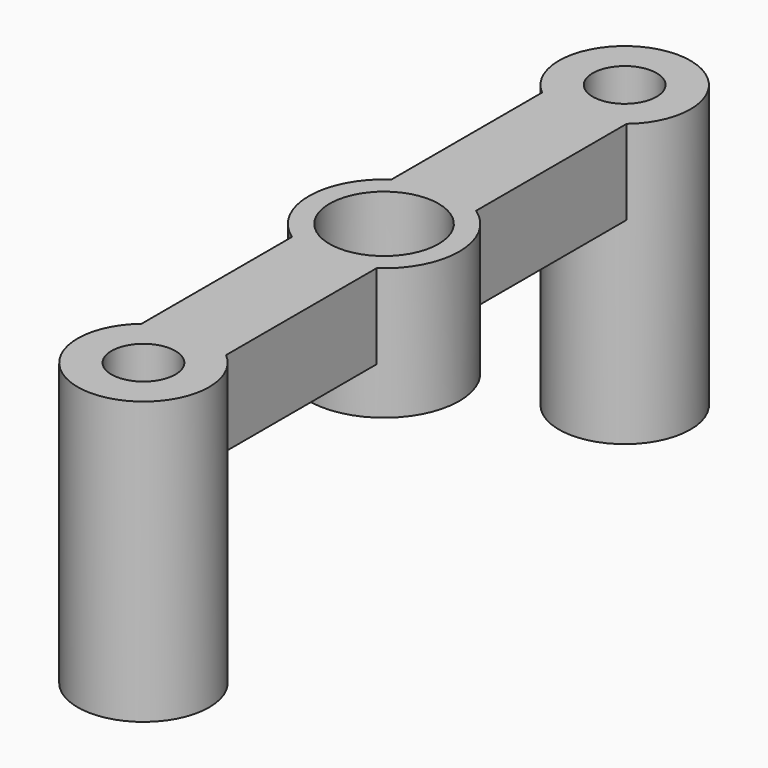
from build123d import *

# Parameters (mm, degrees)
CYLINDER001_R     = 1.7
CYLINDER001_DEPTH = 15
CYLINDER_R        = 3.5
CYLINDER_DEPTH    = 15
CYLINDER002_R     = 2.9
CYLINDER002_DEPTH = 7
BOX_W             = 4.5
BOX_H             = 28
BOX_DEPTH         = 4.5
CYLINDER003_R     = 4
CYLINDER003_DEPTH = 7


with BuildPart() as leg_inner:
    # Cylinder001 → Cylinder001 (new body)
    with BuildSketch(Plane(origin=(0, -16, 0), x_dir=(1, 0, 0), z_dir=(0, 0, 1))):
        Circle(CYLINDER001_R)
    extrude(amount=CYLINDER001_DEPTH)


with BuildPart() as leg_outer:
    # Cylinder → Cylinder (new body)
    with BuildSketch(Plane(origin=(0, -16, 0), x_dir=(1, 0, 0), z_dir=(0, 0, 1))):
        Circle(CYLINDER_R)
    extrude(amount=CYLINDER_DEPTH)


with BuildPart() as rough_leg_r:
    # Cut001 base: copy of leg_outer
    add(leg_outer.part)

    # Cut001: cut leg_inner
    add(leg_inner.part, mode=Mode.SUBTRACT)


with BuildPart() as rough_leg_r_1:
    # Cut001 placement: moved
    add(rough_leg_r.part.moved(Location((0, 32, 0))))


with BuildPart() as tubing_bore:
    # Cylinder002 → Cylinder002 (new body)
    with BuildSketch(Plane.XY.offset(8)):
        Circle(CYLINDER002_R)
    extrude(amount=CYLINDER002_DEPTH)


with BuildPart() as rough_arch:
    # Box → Box (new body)
    with BuildSketch(Plane(origin=(-2.25, -14, 10.5), x_dir=(1, 0, 0), z_dir=(0, 0, 1))):
        with Locations((2.25, 14)):
            Rectangle(BOX_W, BOX_H)
    extrude(amount=BOX_DEPTH)


with BuildPart() as center:
    # Cylinder003 → Cylinder003 (new body)
    with BuildSketch(Plane.XY.offset(8)):
        Circle(CYLINDER003_R)
    extrude(amount=CYLINDER003_DEPTH)

    # Fusion: union rough_arch
    add(rough_arch.part)

    # Cut002: cut tubing_bore
    add(tubing_bore.part, mode=Mode.SUBTRACT)


with BuildPart() as rough_tubing_support:
    # Cut base: copy of leg_outer
    add(leg_outer.part)

    # Cut: cut leg_inner
    add(leg_inner.part, mode=Mode.SUBTRACT)

    # Fusion001: union rough_leg_r, center
    add(rough_leg_r_1.part)
    add(center.part)


solid = rough_tubing_support.part
